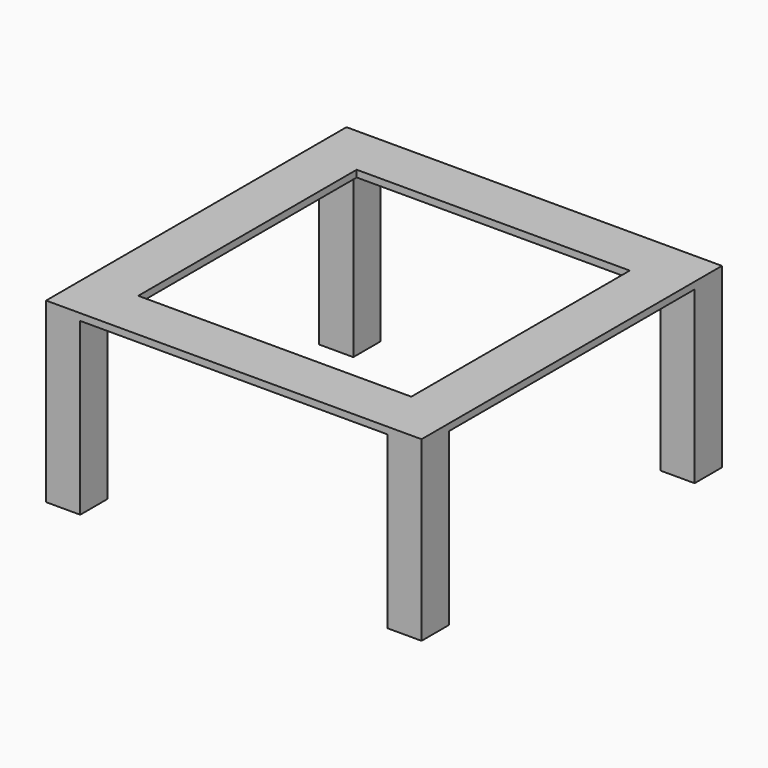
from build123d import *

# Parameters (mm, degrees)
F0_W     = 110
F0_H     = 110
F1_DEPTH = 2
F2_W     = 10
F2_H     = 10
F3_DEPTH = 50
F4_W     = 80
F4_H     = 80
F5_DEPTH = 52.001


with BuildPart() as f1:
    # F0 (on Top) → F1 (new body)
    with BuildSketch(Plane.XY):
        Rectangle(F0_W, F0_H)
    extrude(amount=-F1_DEPTH)

    # F2 (on face) → F3 (join)
    with BuildSketch(Plane(origin=(0, 0, -2), x_dir=(1, 0, 0), z_dir=(0, 0, -1))):
        with Locations((-50, -50)):
            Rectangle(F2_W, F2_H)
        with Locations((-50, 50)):
            Rectangle(F2_W, F2_H)
        with Locations((50, 50)):
            Rectangle(F2_W, F2_H)
        with Locations((50, -50)):
            Rectangle(F2_W, F2_H)
    extrude(amount=F3_DEPTH)

    # F4 (on face) → F5 (cut, through all)
    with BuildSketch(Plane.XY):
        Rectangle(F4_W, F4_H)
    extrude(amount=-F5_DEPTH, mode=Mode.SUBTRACT)


solid = f1.part
